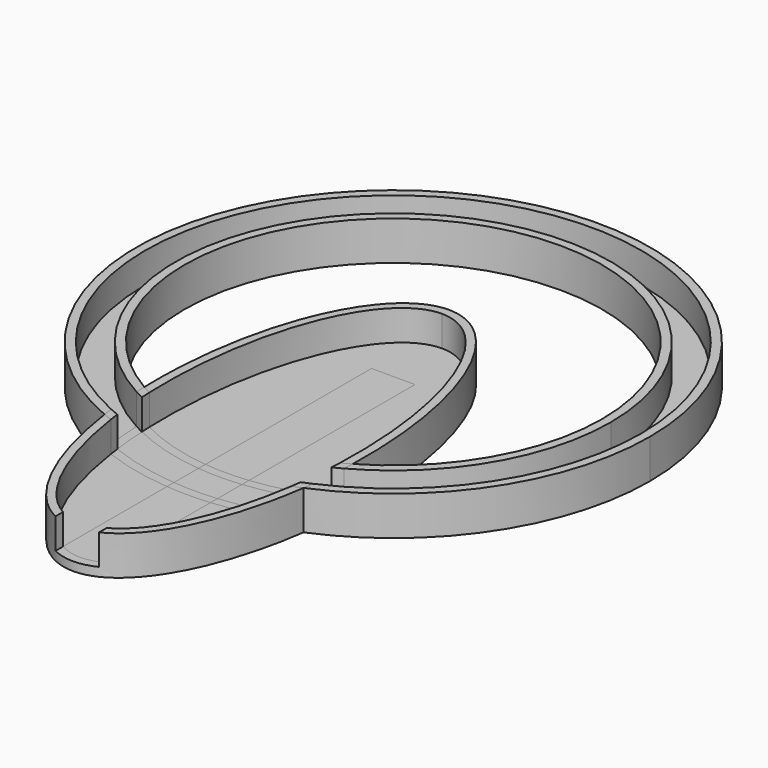
from build123d import *

# Parameters (mm, degrees)
F0_R      = 50
F0_R_2    = 48
F1_DEPTH  = 9
F2_R      = 57
F2_R_2    = 50
F3_DEPTH  = 2
F4_R      = 59
F4_R_2    = 57
F5_DEPTH  = 9
F7_DEPTH  = 9
F9_DEPTH  = 2
F11_R     = 57
F11_R_2   = 50
F12_DEPTH = 7
F14_DEPTH = 7
F15_W     = 10
F15_H     = 7
F16_DEPTH = 100


with BuildPart() as f1:
    # F0 (on Top) → F1 (new body)
    with BuildSketch(Plane.XY):
        Circle(F0_R)
        Circle(F0_R_2, mode=Mode.SUBTRACT)
    extrude(amount=F1_DEPTH)

    # F2 (on Top) → F3 (join)
    with BuildSketch(Plane.XY):
        Circle(F2_R)
        Circle(F2_R_2, mode=Mode.SUBTRACT)
    extrude(amount=F3_DEPTH)

    # F4 (on Top) → F5 (join)
    with BuildSketch(Plane.XY):
        Circle(F4_R)
        Circle(F4_R_2, mode=Mode.SUBTRACT)
    extrude(amount=F5_DEPTH)

    # F6 (on Top) → F7 (join)
    with BuildSketch(Plane.XY):
        with BuildLine():
            add(Edge.make_bspline(
                [(0, 16), (-41.5692193817, 16), (-20.7846096908, -65), (0, -146), (20.7846096908, -65), (41.5692193817, 16), (0, 16)],
                knots=[0, 0, 0, 2.0943951024, 2.0943951024, 4.1887902048, 4.1887902048, 6.2831853072, 6.2831853072, 6.2831853072], degree=2, weights=[1, 0.5, 1, 0.5, 1, 0.5, 1]))
        make_face()
        with BuildLine():
            add(Edge.make_bspline(
                [(0, 14), (-38.1051177665, 14), (-19.0525588833, -64), (0, -142), (19.0525588833, -64), (38.1051177665, 14), (0, 14)],
                knots=[0, 0, 0, 2.0943951024, 2.0943951024, 4.1887902048, 4.1887902048, 6.2831853072, 6.2831853072, 6.2831853072], degree=2, weights=[1, 0.5, 1, 0.5, 1, 0.5, 1]))
        make_face(mode=Mode.SUBTRACT)
    extrude(amount=F7_DEPTH)

    # F8 (on Top) → F9 (join)
    with BuildSketch(Plane.XY):
        with BuildLine():
            add(Edge.make_bspline(
                [(0, 14), (-38.1051177665, 14), (-19.0525588833, -64), (0, -142), (19.0525588833, -64), (38.1051177665, 14), (0, 14)],
                knots=[0, 0, 0, 2.0943951024, 2.0943951024, 4.1887902048, 4.1887902048, 6.2831853072, 6.2831853072, 6.2831853072], degree=2, weights=[1, 0.5, 1, 0.5, 1, 0.5, 1]))
        make_face()
    extrude(amount=F9_DEPTH)

    # F11 (on offset) → F12 (cut)
    with BuildSketch(Plane.XY.offset(2)):
        Circle(F11_R)
        Circle(F11_R_2, mode=Mode.SUBTRACT)
    extrude(amount=F12_DEPTH, mode=Mode.SUBTRACT)

    # F13 (on offset) → F14 (cut)
    with BuildSketch(Plane.XY.offset(2)):
        with BuildLine():
            add(Edge.make_bspline(
                [(0, 14), (-38.1051177665, 14), (-19.0525588833, -64), (0, -142), (19.0525588833, -64), (38.1051177665, 14), (0, 14)],
                knots=[0, 0, 0, 2.0943951024, 2.0943951024, 4.1887902048, 4.1887902048, 6.2831853072, 6.2831853072, 6.2831853072], degree=2, weights=[1, 0.5, 1, 0.5, 1, 0.5, 1]))
        make_face()
    extrude(amount=F14_DEPTH, mode=Mode.SUBTRACT)

    # F15 (on Front) → F16 (cut)
    with BuildSketch(Plane.XZ):
        with Locations((0, 5.5)):
            Rectangle(F15_W, F15_H)
    extrude(amount=F16_DEPTH, mode=Mode.SUBTRACT)


solid = f1.part
